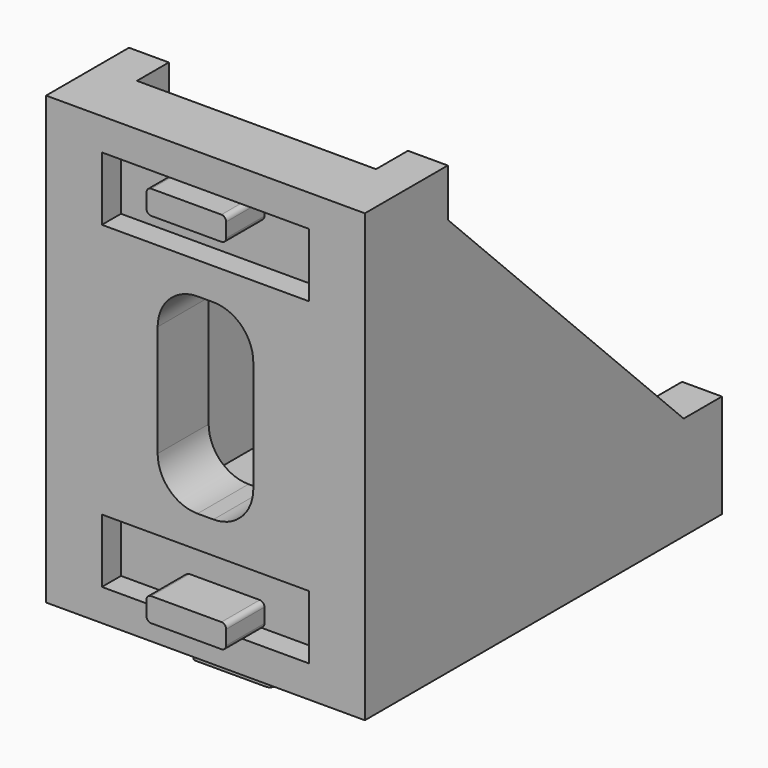
from build123d import *

# Parameters (mm, degrees)
F0_W      = 20
F0_H      = 28
F1_DEPTH  = 4
F2_W      = 20
F2_H      = 28
F3_DEPTH  = 4
F4_W      = 13
F4_H      = 4
F5_DEPTH  = 1.5
F7_DEPTH  = 3
F9_DEPTH  = 3
F11_DEPTH = 4
F12_W     = 13
F12_H     = 4
F13_DEPTH = 1.5
F15_DEPTH = 4
F17_DEPTH = 3
F19_DEPTH = 3
F21_DEPTH = 2.5
F23_DEPTH = 2.5


with BuildPart() as f1:
    # F0 (on Top) → F1 (new body)
    with BuildSketch(Plane.XY):
        with Locations((-10, 14)):
            Rectangle(F0_W, F0_H)
    extrude(amount=F1_DEPTH)

    # F2 (on Front) → F3 (join)
    with BuildSketch(Plane.XZ):
        with Locations((-10, 14)):
            Rectangle(F2_W, F2_H)
    extrude(amount=-F3_DEPTH)

    # F4 (on face) → F5 (cut)
    with BuildSketch(Plane.XZ):
        with Locations((-10, 4)):
            Rectangle(F4_W, F4_H)
        with Locations((-10, 24)):
            Rectangle(F4_W, F4_H)
    extrude(amount=-F5_DEPTH, mode=Mode.SUBTRACT)

    # F6 (on face) → F7 (join)
    with BuildSketch(Plane.XZ.offset(-1.5)):
        with BuildLine():
            Line((-7.8, 3.5), (-12.2, 3.5))
            ThreePointArc((-12.2, 3.5), (-12.4121320344, 3.4121320344), (-12.5, 3.2))
            Line((-12.5, 3.2), (-12.5, 2.3))
            ThreePointArc((-12.5, 2.3), (-12.4121320344, 2.0878679656), (-12.2, 2))
            Line((-12.2, 2), (-7.8, 2))
            ThreePointArc((-7.8, 2), (-7.5878679656, 2.0878679656), (-7.5, 2.3))
            Line((-7.5, 2.3), (-7.5, 3.2))
            ThreePointArc((-7.5, 3.2), (-7.5878679656, 3.4121320344), (-7.8, 3.5))
        make_face()
    extrude(amount=F7_DEPTH)

    # F8 (on face) → F9 (join)
    with BuildSketch(Plane.XZ.offset(-1.5)):
        with BuildLine():
            Line((-7.8, 26), (-12.2, 26))
            ThreePointArc((-12.2, 26), (-12.4121320344, 25.9121320344), (-12.5, 25.7))
            Line((-12.5, 25.7), (-12.5, 24.8))
            ThreePointArc((-12.5, 24.8), (-12.4121320344, 24.5878679656), (-12.2, 24.5))
            Line((-12.2, 24.5), (-7.8, 24.5))
            ThreePointArc((-7.8, 24.5), (-7.5878679656, 24.5878679656), (-7.5, 24.8))
            Line((-7.5, 24.8), (-7.5, 25.7))
            ThreePointArc((-7.5, 25.7), (-7.5878679656, 25.9121320344), (-7.8, 26))
        make_face()
    extrude(amount=F9_DEPTH)

    # F10 (on face) → F11 (cut)
    with BuildSketch(Plane.XZ):
        with BuildLine():
            Line((-7, 10.5), (-7, 14))
            Line((-7, 14), (-13, 14))
            Line((-13, 14), (-13, 10.5))
            ThreePointArc((-13, 10.5), (-12.267766953, 8.732233047), (-10.5, 8))
            Line((-10.5, 8), (-9.5, 8))
            ThreePointArc((-9.5, 8), (-7.732233047, 8.732233047), (-7, 10.5))
        make_face()
        with BuildLine():
            Line((-13, 14), (-7, 14))
            Line((-7, 14), (-7, 17.5))
            ThreePointArc((-7, 17.5), (-7.732233047, 19.267766953), (-9.5, 20))
            Line((-9.5, 20), (-10.5, 20))
            ThreePointArc((-10.5, 20), (-12.267766953, 19.267766953), (-13, 17.5))
            Line((-13, 17.5), (-13, 14))
        make_face()
    extrude(amount=-F11_DEPTH, mode=Mode.SUBTRACT)

    # F12 (on face) → F13 (cut)
    with BuildSketch(Plane(origin=(0, 0, 0), x_dir=(1, 0, 0), z_dir=(0, 0, -1))):
        with Locations((-10, -24)):
            Rectangle(F12_W, F12_H)
        with Locations((-10, -4)):
            Rectangle(F12_W, F12_H)
    extrude(amount=-F13_DEPTH, mode=Mode.SUBTRACT)

    # F14 (on face) → F15 (cut)
    with BuildSketch(Plane(origin=(0, 0, 0), x_dir=(1, 0, 0), z_dir=(0, 0, -1))):
        with BuildLine():
            Line((-6.9838613272, -14), (-12.9838613272, -14))
            Line((-12.9838613272, -14), (-12.9838613272, -17.5))
            ThreePointArc((-12.9838613272, -17.5), (-12.2516282801, -19.267766953), (-10.4838613272, -20))
            Line((-10.4838613272, -20), (-9.4838613272, -20))
            ThreePointArc((-9.4838613272, -20), (-7.7160943742, -19.267766953), (-6.9838613272, -17.5))
            Line((-6.9838613272, -17.5), (-6.9838613272, -14))
        make_face()
        with BuildLine():
            Line((-9.4838613272, -8), (-10.4838613272, -8))
            ThreePointArc((-10.4838613272, -8), (-12.2516282801, -8.732233047), (-12.9838613272, -10.5))
            Line((-12.9838613272, -10.5), (-12.9838613272, -14))
            Line((-12.9838613272, -14), (-6.9838613272, -14))
            Line((-6.9838613272, -14), (-6.9838613272, -10.5))
            ThreePointArc((-6.9838613272, -10.5), (-7.7160943742, -8.732233047), (-9.4838613272, -8))
        make_face()
    extrude(amount=-F15_DEPTH, mode=Mode.SUBTRACT)

    # F16 (on face) → F17 (join)
    with BuildSketch(Plane(origin=(0, 0, 1.5), x_dir=(1, 0, 0), z_dir=(0, 0, -1))):
        with BuildLine():
            Line((-7.8, -24.5), (-12.2, -24.5))
            ThreePointArc((-12.2, -24.5), (-12.4121320344, -24.5878679656), (-12.5, -24.8))
            Line((-12.5, -24.8), (-12.5, -25.7))
            ThreePointArc((-12.5, -25.7), (-12.4121320344, -25.9121320344), (-12.2, -26))
            Line((-12.2, -26), (-7.8, -26))
            ThreePointArc((-7.8, -26), (-7.5878679656, -25.9121320344), (-7.5, -25.7))
            Line((-7.5, -25.7), (-7.5, -24.8))
            ThreePointArc((-7.5, -24.8), (-7.5878679656, -24.5878679656), (-7.8, -24.5))
        make_face()
    extrude(amount=F17_DEPTH)

    # F18 (on face) → F19 (join)
    with BuildSketch(Plane(origin=(0, 0, 1.5), x_dir=(1, 0, 0), z_dir=(0, 0, -1))):
        with BuildLine():
            Line((-12.2, -3.5), (-7.8, -3.5))
            ThreePointArc((-7.8, -3.5), (-7.5878679656, -3.4121320344), (-7.5, -3.2))
            Line((-7.5, -3.2), (-7.5, -2.3))
            ThreePointArc((-7.5, -2.3), (-7.5878679656, -2.0878679656), (-7.8, -2))
            Line((-7.8, -2), (-12.2, -2))
            ThreePointArc((-12.2, -2), (-12.4121320344, -2.0878679656), (-12.5, -2.3))
            Line((-12.5, -2.3), (-12.5, -3.2))
            ThreePointArc((-12.5, -3.2), (-12.4121320344, -3.4121320344), (-12.2, -3.5))
        make_face()
    extrude(amount=F19_DEPTH)

    # F20 (on face) → F21 (join)
    with BuildSketch(Plane.YZ):
        Polygon((4, 4), (28, 4), (28, 6.5), (25, 6.5), (6.5, 25), (6.5, 28), (4, 28), align=None)
    extrude(amount=-F21_DEPTH)

    # F22 (on face) → F23 (join)
    with BuildSketch(Plane(origin=(-20, 0, 0), x_dir=(0, -1, 0), z_dir=(-1, 0, 0))):
        Polygon((-4, 4), (-4, 28), (-6.5, 28), (-6.5, 25), (-25, 6.5), (-28, 6.5), (-28, 4), align=None)
    extrude(amount=-F23_DEPTH)


solid = f1.part
